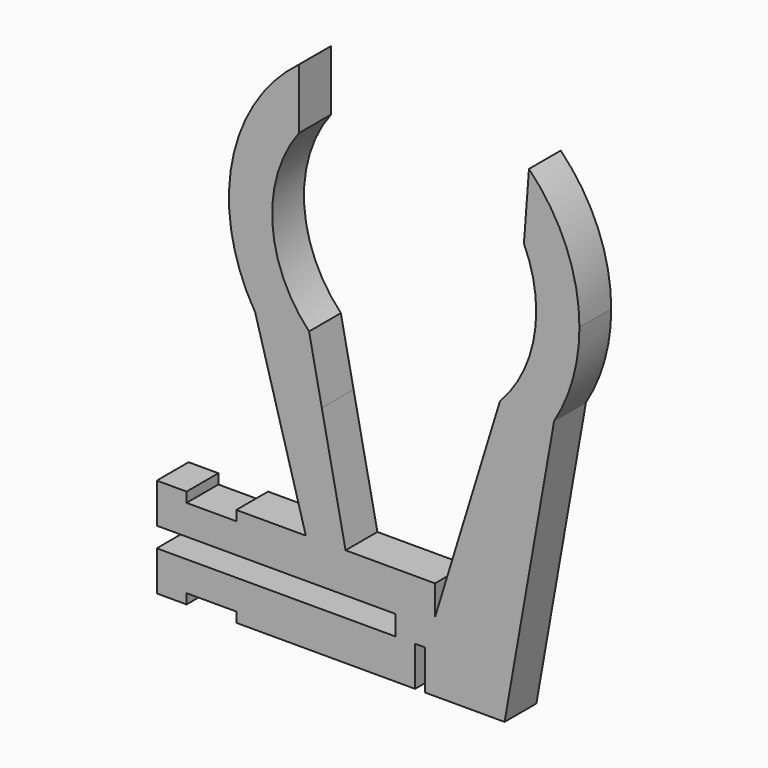
from build123d import *

# Parameters (mm, degrees)
F1_DEPTH = 2


with BuildPart() as f1:
    # F0 (on Front) → F1 (new body)
    with BuildSketch(Plane.XZ):
        with BuildLine():
            ThreePointArc((-38.4432851938, 37.1302077967), (-41.8189272985, 31.7253624753), (-40.6708321656, 25.4572534994))
            Line((-40.6708321656, 25.4572534994), (-40.6635933433, 25.4572770938))
            Line((-40.6635933433, 25.4572770938), (-37.9443538187, 25.4661402565))
            ThreePointArc((-37.9443538187, 25.4661402565), (-39.7897986845, 29.6891767659), (-38.4432851938, 34.0967390777))
            Line((-38.4432851938, 34.0967390777), (-38.4432851938, 37.1302077967))
        make_face()
        with BuildLine():
            ThreePointArc((-24.3404475114, 30.0725679845), (-24.9999427639, 33.418477972), (-26.8797747894, 36.2638741112))
            Line((-26.8797747894, 36.2638741112), (-27.1338318028, 32.8728124835))
            ThreePointArc((-27.1338318028, 32.8728124835), (-26.6713997999, 31.5064940955), (-26.5147945554, 30.0725679845))
            ThreePointArc((-26.5147945554, 30.0725679845), (-26.9883189893, 27.6094284081), (-28.3413854132, 25.4974404311))
            Line((-28.3413854132, 25.4974404311), (-25.6149070662, 25.5063271883))
            ThreePointArc((-25.6149070662, 25.5063271883), (-24.6650368609, 27.7021881539), (-24.3404475114, 30.0725679845))
        make_face()
        with BuildLine():
            Line((-28.3413854132, 25.4974404311), (-29.3841796517, 22.103513683))
            ThreePointArc((-29.3841796517, 22.103513683), (-27.2492776233, 23.5277028406), (-25.6149070662, 25.5063271883))
            Line((-25.6149070662, 25.5063271883), (-28.3413854132, 25.4974404311))
        make_face()
        with BuildLine():
            Line((-40.6610403277, 25.4482014486), (-40.6575024619, 25.4356247862))
            ThreePointArc((-40.6575024619, 25.4356247862), (-39.1888748371, 23.6403973669), (-37.3029250496, 22.2902484912))
            Line((-37.3029250496, 22.2902484912), (-37.9443538187, 25.4661402565))
            Line((-37.9443538187, 25.4661402565), (-40.6635933433, 25.4572770938))
            Line((-40.6635933433, 25.4572770938), (-40.6610403277, 25.4482014486))
        make_face()
        with BuildLine():
            Line((-40.6575024619, 25.4356247862), (-38.1070154905, 16.368968524))
            Line((-38.1070154905, 16.368968524), (-36.1070154905, 16.368968524))
            Line((-36.1070154905, 16.368968524), (-37.3029250496, 22.2902484912))
            ThreePointArc((-37.3029250496, 22.2902484912), (-39.1888748371, 23.6403973669), (-40.6575024619, 25.4356247862))
        make_face()
        with BuildLine():
            Line((-44.1070154905, 16.368968524), (-45.6070154905, 16.368968524))
            Line((-45.6070154905, 16.368968524), (-45.6070154905, 14.368968524))
            Line((-45.6070154905, 14.368968524), (-33.6070154905, 14.368968524))
            Line((-33.6070154905, 14.368968524), (-33.6070154905, 13.368968524))
            Line((-33.6070154905, 13.368968524), (-45.6070154905, 13.368968524))
            Line((-45.6070154905, 13.368968524), (-45.6070154905, 11.368968524))
            Line((-45.6070154905, 11.368968524), (-44.1070154905, 11.368968524))
            Line((-44.1070154905, 11.368968524), (-44.1070154905, 11.868968524))
            Line((-44.1070154905, 11.868968524), (-41.6070154905, 11.868968524))
            Line((-41.6070154905, 11.868968524), (-41.6070154905, 11.368968524))
            Line((-41.6070154905, 11.368968524), (-32.6070154905, 11.368968524))
            Line((-32.6070154905, 11.368968524), (-32.6070154905, 13.368968524))
            Line((-32.6070154905, 13.368968524), (-32.1070154905, 13.368968524))
            Line((-32.1070154905, 13.368968524), (-32.1070154905, 11.368968524))
            Line((-32.1070154905, 11.368968524), (-28.1070154905, 11.368968524))
            Line((-28.1070154905, 11.368968524), (-25.6149070662, 25.5063271883))
            ThreePointArc((-25.6149070662, 25.5063271883), (-27.2492776233, 23.5277028406), (-29.3841796517, 22.103513683))
            Line((-29.3841796517, 22.103513683), (-31.6070154905, 14.868968524))
            Line((-31.6070154905, 14.868968524), (-31.6070154905, 16.368968524))
            Line((-31.6070154905, 16.368968524), (-33.6070154905, 16.368968524))
            Line((-33.6070154905, 16.368968524), (-36.1070154905, 16.368968524))
            Line((-36.1070154905, 16.368968524), (-38.1070154905, 16.368968524))
            Line((-38.1070154905, 16.368968524), (-41.6070154905, 16.368968524))
            Line((-41.6070154905, 16.368968524), (-41.6070154905, 15.868968524))
            Line((-41.6070154905, 15.868968524), (-44.1070154905, 15.868968524))
            Line((-44.1070154905, 15.868968524), (-44.1070154905, 16.368968524))
        make_face()
    extrude(amount=F1_DEPTH)


solid = f1.part
